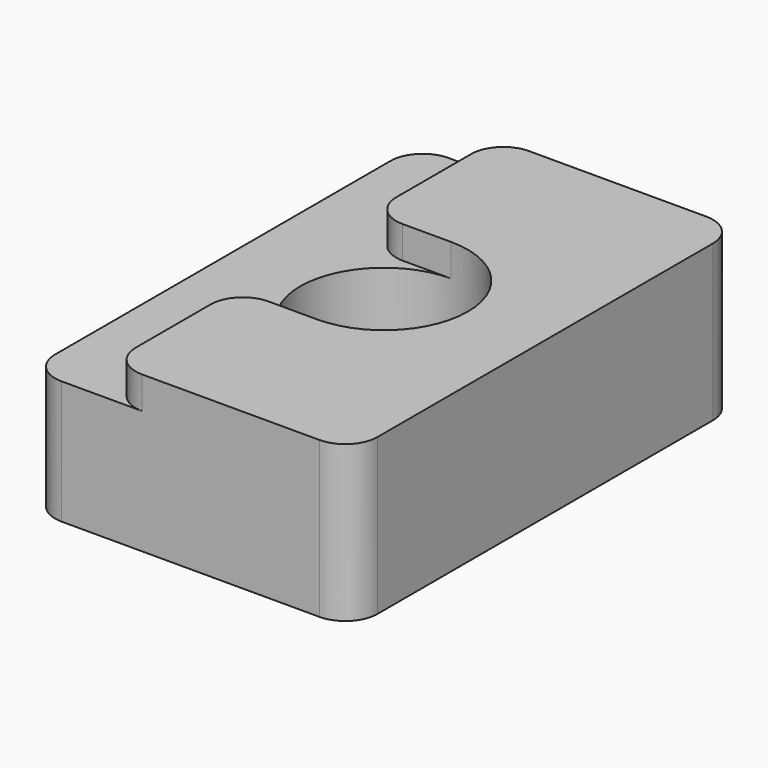
from build123d import *

# Parameters (mm, degrees)
F0_R     = 2.6
F1_DEPTH = 4.83
F3_DEPTH = 1
F4_R     = 1


with BuildPart() as f1:
    # F0 (on Top) → F1 (new body)
    with BuildSketch(Plane.XY):
        with BuildLine():
            Line((-4, -7.5), (4, -7.5))
            ThreePointArc((4, -7.5), (4.7071067812, -7.2071067812), (5, -6.5))
            Line((5, -6.5), (5, 6.5))
            ThreePointArc((5, 6.5), (4.7071067812, 7.2071067812), (4, 7.5))
            Line((4, 7.5), (-4, 7.5))
            ThreePointArc((-4, 7.5), (-4.7071067812, 7.2071067812), (-5, 6.5))
            Line((-5, 6.5), (-5, -6.5))
            ThreePointArc((-5, -6.5), (-4.7071067812, -7.2071067812), (-4, -7.5))
        make_face()
        Circle(F0_R, mode=Mode.SUBTRACT)
    extrude(amount=F1_DEPTH)

    # F2 (on face) → F3 (cut)
    with BuildSketch(Plane.XY.offset(4.83)):
        with BuildLine():
            Line((-2.5, 2.6), (-2.5, 7.5))
            Line((-2.5, 7.5), (-4, 7.5))
            ThreePointArc((-4, 7.5), (-4.7071067812, 7.2071067812), (-5, 6.5))
            Line((-5, 6.5), (-5, -6.5))
            ThreePointArc((-5, -6.5), (-4.7071067812, -7.2071067812), (-4, -7.5))
            Line((-4, -7.5), (-2.5, -7.5))
            Line((-2.5, -7.5), (-2.5, -2.6))
            Line((-2.5, -2.6), (0, -2.6))
            ThreePointArc((0, -2.6), (-2.6, 0), (0, 2.6))
            Line((0, 2.6), (-2.5, 2.6))
        make_face()
    extrude(amount=-F3_DEPTH, mode=Mode.SUBTRACT)

    # F4
    f4_edges = [f1.edges().sort_by_distance(p)[0] for p in [
        (-2.5, -7.5, 4.33),
        (-2.5, 2.6, 4.33),
        (-2.5, -2.6, 4.33),
        (-2.5, 7.5, 4.33),
    ]]
    fillet(f4_edges, radius=F4_R)


solid = f1.part
